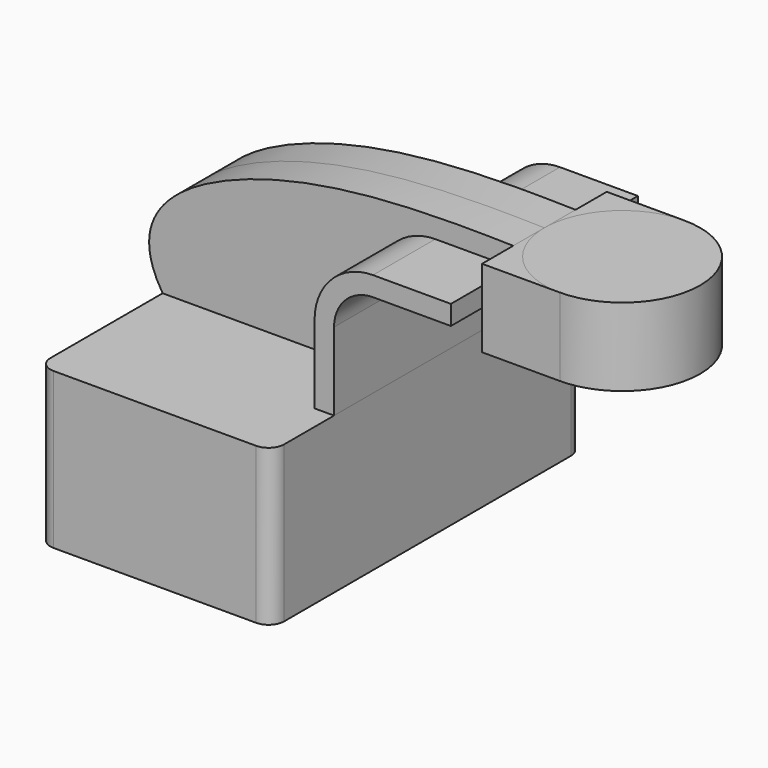
from build123d import *

# Parameters (mm, degrees)
F1_DEPTH = 63.5
F0_W     = 25.4
F0_H     = 12.7
F0_H_2   = 6.35
F2_DEPTH = 25.4
F3_DEPTH = 38.1
F4_DEPTH = 12.7
F6_R     = 5.08
F7_R     = 5.08
F8_R     = 5.08


with BuildPart() as f1:
    # F0 (on Front) → F1 (new body, symmetric)
    with BuildSketch(Plane.XZ):
        Polygon((-38.1, -25.4), (38.1, -25.4), (38.1, 25.4), (31.75, 25.4), (-38.1, 25.4), align=None)
    extrude(amount=F1_DEPTH, both=True)

    # F6
    f6_edges = [f1.edges().sort_by_distance(p)[0] for p in [
        (38.1, -63.5, 0),
    ]]
    fillet(f6_edges, radius=F6_R)

    # F7
    f7_edges = [f1.edges().sort_by_distance(p)[0] for p in [
        (-38.1, -63.5, 0),
    ]]
    fillet(f7_edges, radius=F7_R)

    # F8
    f8_edges = [f1.edges().sort_by_distance(p)[0] for p in [
        (-38.1, 63.5, 0),
        (38.1, 63.5, 0),
    ]]
    fillet(f8_edges, radius=F8_R)


with BuildPart() as f2:
    # F0 (on Front) → F2 (new body, symmetric)
    with BuildSketch(Plane.XZ):
        with Locations((88.9, 57.15)):
            Rectangle(F0_W, F0_H)
        with Locations((88.9, 66.675)):
            Rectangle(F0_W, F0_H_2)
        with Locations((88.9, 73.025)):
            Rectangle(F0_W, F0_H_2)
    extrude(amount=F2_DEPTH, both=True)


with BuildPart() as f3:
    # F0 (on Front) → F3 (new body, symmetric)
    with BuildSketch(Plane.XZ):
        with BuildLine():
            Line((31.75, 25.4), (38.1, 25.4))
            Line((38.1, 25.4), (38.1, 50.8))
            ThreePointArc((38.1, 50.8), (41.8197438789, 59.7802561211), (50.8, 63.5))
            Line((50.8, 63.5), (76.2, 63.5))
            Line((76.2, 63.5), (76.2, 69.85))
            Line((76.2, 69.85), (50.8, 69.85))
            ThreePointArc((50.8, 69.85), (37.3296158184, 64.2703841816), (31.75, 50.8))
            Line((31.75, 50.8), (31.75, 25.4))
        make_face()
    extrude(amount=F3_DEPTH, both=True)


with BuildPart() as f4:
    # F0 (on Front) → F4 (new body, symmetric)
    with BuildSketch(Plane.XZ):
        with BuildLine():
            add(Edge.make_bspline(
                [(-38.1, 25.4), (-51.135007292, 45.8500422537), (-8.4800277474, 76.6009273388), (48.4329954615, 76.8052207334), (76.2, 76.2)],
                knots=[0, 0, 0, 0, 0.4244585088, 1, 1, 1, 1], degree=3))
            Line((-38.1, 25.4), (31.75, 25.4))
            Line((31.75, 25.4), (31.75, 50.8))
            ThreePointArc((31.75, 50.8), (37.3296158184, 64.2703841816), (50.8, 69.85))
            Line((50.8, 69.85), (76.2, 69.85))
            Line((76.2, 69.85), (76.2, 76.2))
        make_face()
    extrude(amount=F4_DEPTH, both=True)


with BuildPart() as f5:
    # F0 (on Front) → F5 (revolve)
    with BuildSketch(Plane.XZ):
        Polygon((127, 76.2), (101.6, 76.2), (101.6, 69.85), (101.6, 63.5), (101.6, 50.8), (127, 50.8), align=None)
    revolve(axis=Axis((101.6, 0, 57.15), (0, 0, -1)))


solid = Compound([f1.part, f2.part, f3.part, f4.part, f5.part])
